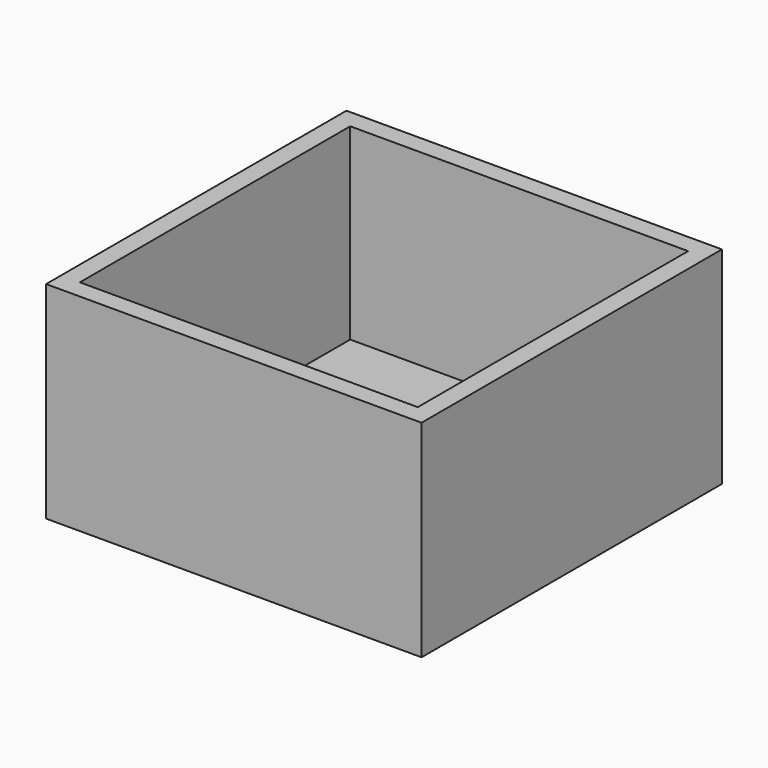
from build123d import *

# Parameters (mm, degrees)
F0_W     = 100
F0_H     = 100
F1_DEPTH = 5
F2_W     = 100
F2_H     = 100
F2_W_2   = 90
F2_H_2   = 90
F3_DEPTH = 50


with BuildPart() as f1:
    # F0 (on Top) → F1 (new body)
    with BuildSketch(Plane.XY):
        with Locations((0, 0.521898)):
            Rectangle(F0_W, F0_H)
    extrude(amount=-F1_DEPTH)

    # F2 (on face) → F3 (join)
    with BuildSketch(Plane.XY):
        with Locations((0, 0.521898)):
            Rectangle(F2_W, F2_H)
        with Locations((0, 0.521898)):
            Rectangle(F2_W_2, F2_H_2, mode=Mode.SUBTRACT)
    extrude(amount=F3_DEPTH)


solid = f1.part
